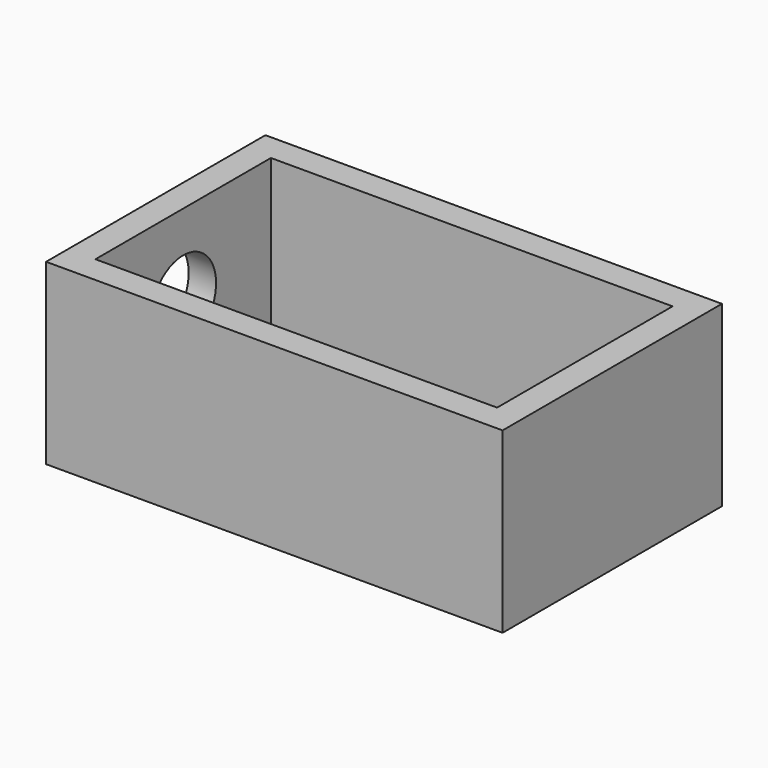
from build123d import *

# Parameters (mm, degrees)
CYLINDER_R     = 3
CYLINDER_DEPTH = 10
SKETCH009_W    = 29.3
SKETCH009_H    = 16
PAD010_DEPTH   = 16
SKETCH010_W    = 33.3
SKETCH010_H    = 20
PAD009_DEPTH   = 13


with BuildPart() as zylinder:
    # Cylinder → Cylinder (new body)
    with BuildSketch(Plane(origin=(-83, -21, 10), x_dir=(0, 0, -1), z_dir=(1, 0, 0))):
        Circle(CYLINDER_R)
    extrude(amount=CYLINDER_DEPTH)


with BuildPart() as body_innen:
    # Sketch009 → Pad010 (new body)
    with BuildSketch(Plane.XY):
        Rectangle(SKETCH009_W, SKETCH009_H)
    extrude(amount=PAD010_DEPTH)


with BuildPart() as cut006:
    # Sketch010 → Pad009 (new body)
    with BuildSketch(Plane.XY):
        Rectangle(SKETCH010_W, SKETCH010_H)
    extrude(amount=PAD009_DEPTH)

    # Cut005: cut Body innen
    add(body_innen.part, mode=Mode.SUBTRACT)


with BuildPart() as cut006_1:
    # Cut005 placement: moved
    add(cut006.part.moved(Location((-63, -21, 3))))

    # Cut006: cut Zylinder
    add(zylinder.part, mode=Mode.SUBTRACT)


with BuildPart() as cut006_2:
    # Cut006 placement: moved
    add(cut006_1.part.moved(Location((0, 38, 0))))


solid = cut006_2.part
